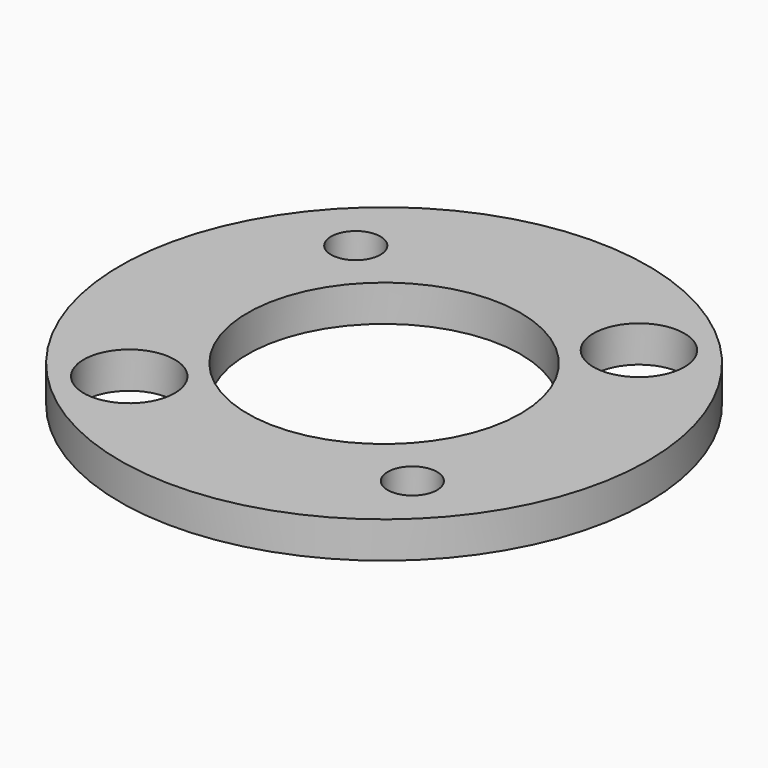
from build123d import *

# Parameters (mm, degrees)
F0_R     = 23.01875
F0_R_2   = 3.96875
F0_R_3   = 2.15265
F0_R_4   = 11.90625
F1_DEPTH = 3.175


with BuildPart() as f1:
    # F0 (on Top) → F1 (new body)
    with BuildSketch(Plane.XY):
        Circle(F0_R)
        with Locations((-12.347852, -12.347852)):
            Circle(F0_R_2, mode=Mode.SUBTRACT)
        with Locations((12.347852, -12.347852)):
            Circle(F0_R_3, mode=Mode.SUBTRACT)
        with Locations((-12.347852, 12.347852)):
            Circle(F0_R_3, mode=Mode.SUBTRACT)
        Circle(F0_R_4, mode=Mode.SUBTRACT)
        with Locations((12.347852, 12.347852)):
            Circle(F0_R_2, mode=Mode.SUBTRACT)
    extrude(amount=F1_DEPTH)


solid = f1.part
